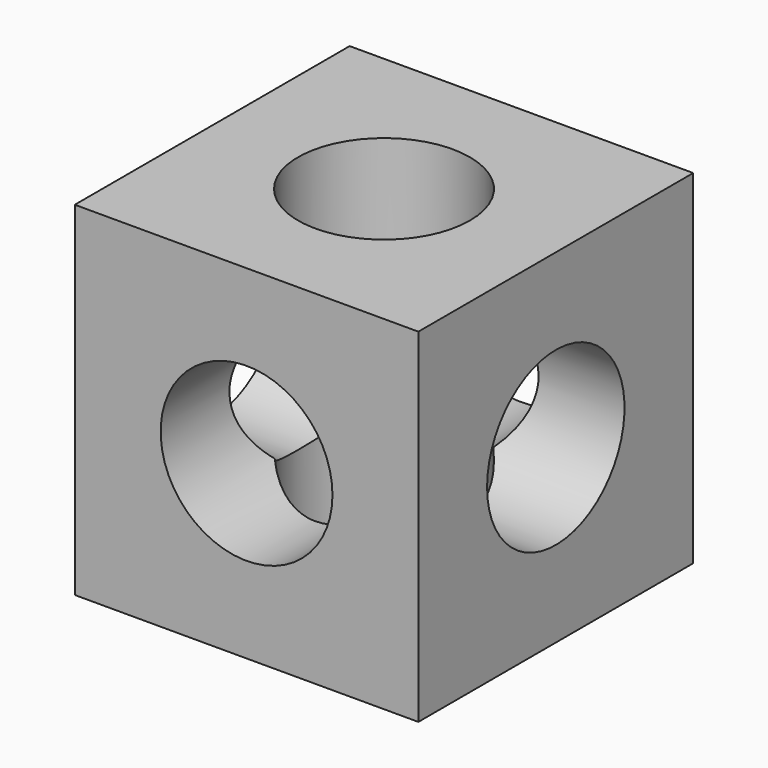
from build123d import *

# Parameters (mm, degrees)
F0_W     = 4
F0_H     = 4
F1_DEPTH = 4
F2_R     = 1
F3_DEPTH = 25
F4_R     = 1
F5_DEPTH = 25
F6_R     = 1
F7_DEPTH = 25


with BuildPart() as f1:
    # F0 (on Front) → F1 (new body)
    with BuildSketch(Plane.XZ):
        with Locations((2, 2)):
            Rectangle(F0_W, F0_H)
    extrude(amount=-F1_DEPTH)

    # F2 (on face) → F3 (cut)
    with BuildSketch(Plane.XZ):
        with Locations((2, 2)):
            Circle(F2_R)
    extrude(amount=-F3_DEPTH, mode=Mode.SUBTRACT)

    # F4 (on Top) → F5 (cut)
    with BuildSketch(Plane.XY):
        with Locations((2, 2)):
            Circle(F4_R)
    extrude(amount=F5_DEPTH, mode=Mode.SUBTRACT)

    # F6 (on face) → F7 (cut)
    with BuildSketch(Plane(origin=(0, 0, 0), x_dir=(0, -1, 0), z_dir=(-1, 0, 0))):
        with Locations((-2, 2)):
            Circle(F6_R)
    extrude(amount=-F7_DEPTH, mode=Mode.SUBTRACT)


solid = f1.part
